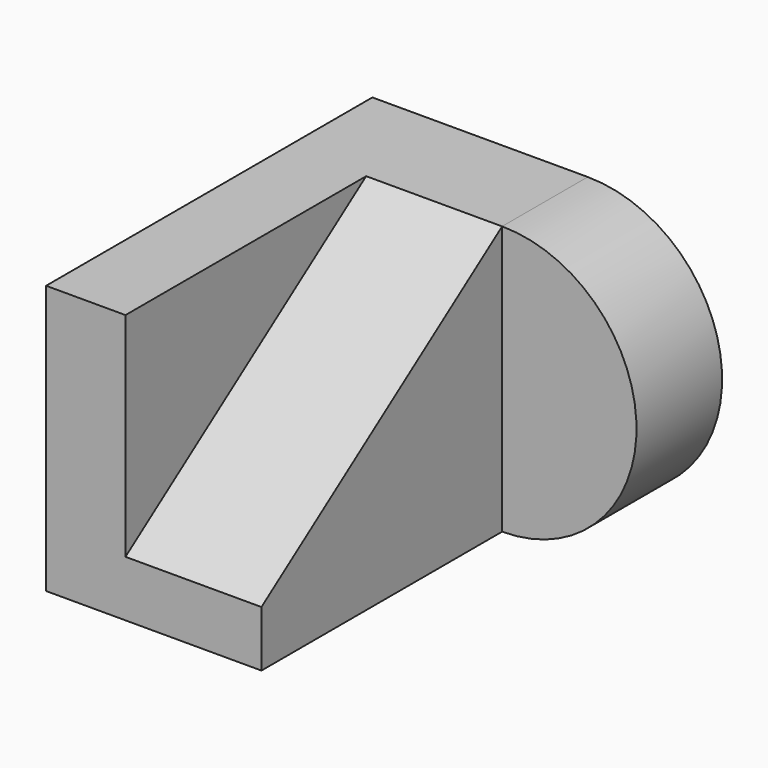
from build123d import *

# Parameters (mm, degrees)
F1_DEPTH = 72
F4_W     = 106.2124588788
F4_H     = 94.8871162292
F5_DEPTH = 47.4435581146
F7_DEPTH = 48


with BuildPart() as f1:
    # F0 (on Front) → F1 (new body, symmetric)
    with BuildSketch(Plane.XZ):
        with BuildLine():
            Line((-76.0368704796, -47.4435581146), (0, -47.4435581146))
            ThreePointArc((0, -47.4435581146), (47.4435581146, 0), (0, 47.4435581146))
            Line((0, 47.4435581146), (-76.0368704796, 47.4435581146))
            Line((-76.0368704796, 47.4435581146), (-76.0368704796, -47.4435581146))
        make_face()
    extrude(amount=F1_DEPTH, both=True)

    # F4 (on plane+point) → F5 (cut, through all)
    with BuildSketch(Plane.YZ.offset(47.4435581146)):
        with Locations((-18.8937705606, 0)):
            Rectangle(F4_W, F4_H)
    extrude(amount=-F5_DEPTH, mode=Mode.SUBTRACT)

    # F6 (on face) → F7 (cut)
    with BuildSketch(Plane.YZ):
        Polygon((-72, -27.6897922158), (34.2124588788, 47.4435581146), (-72, 47.4435581146), align=None)
    extrude(amount=-F7_DEPTH, mode=Mode.SUBTRACT)


solid = f1.part
